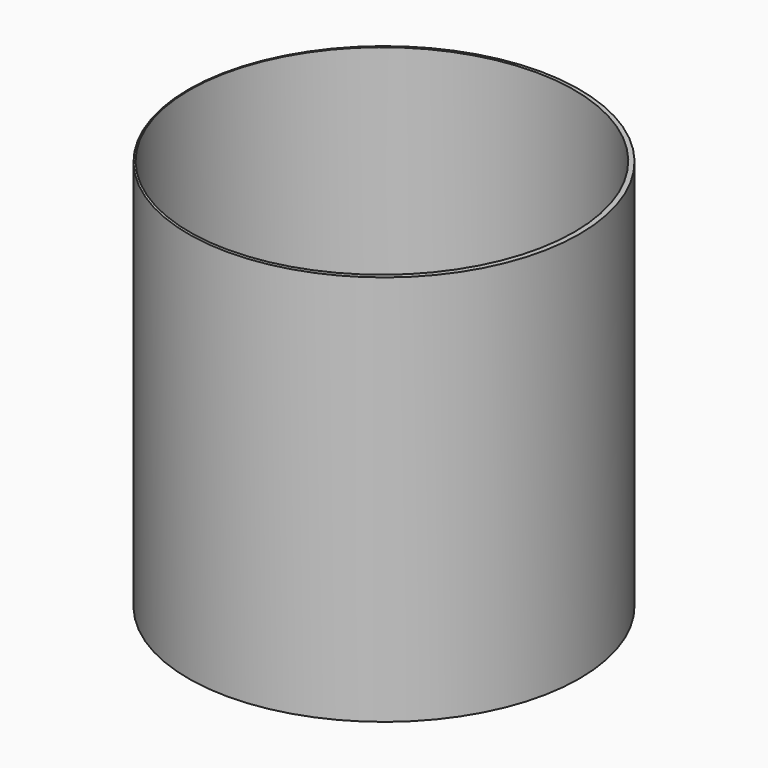
from build123d import *

# Parameters (mm, degrees)
F0_R     = 76.2
F1_DEPTH = 152.4
F3_DEPTH = 152.4


with BuildPart() as f1:
    # F0 (on Top) → F1 (new body)
    with BuildSketch(Plane.XY):
        with Locations((-66.9077262282, -11.3047268242)):
            Circle(F0_R)
    extrude(amount=F1_DEPTH)

    # F2 (on face) → F3 (cut)
    with BuildSketch(Plane.XY.offset(152.4)):
        with BuildLine():
            ThreePointArc((-67.7169448975, 63.6252731758), (-142.6469448975, -11.3047268242), (-67.7169448975, -86.2347268242))
            Line((-67.7169448975, -86.2347268242), (-67.7169448975, 63.6252731758))
        make_face()
        with BuildLine():
            Line((-67.7169448975, 63.6252731758), (-67.7169448975, -86.2347268242))
            ThreePointArc((-67.7169448975, -86.2347268242), (-14.7334337832, -64.2882379385), (7.2130551025, -11.3047268242))
            ThreePointArc((7.2130551025, -11.3047268242), (-14.7334337832, 41.6787842901), (-67.7169448975, 63.6252731758))
        make_face()
    extrude(amount=-F3_DEPTH, mode=Mode.SUBTRACT)


solid = f1.part
